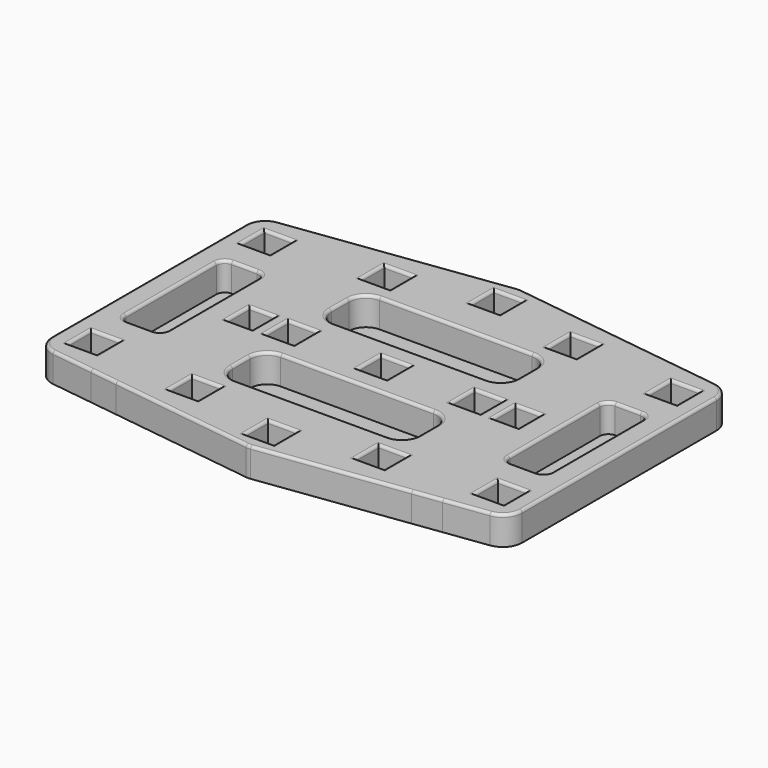
from build123d import *

# Parameters (mm, degrees)
F0_W     = 10.2
F0_H     = 10.2
F0_W_2   = 9
F0_H_2   = 10
F1_DEPTH = 10
F2_R     = 1
F3_DEPTH = 0.2


with BuildPart() as f1:
    # F0 (on Top) → F1 (new body)
    with BuildSketch(Plane.XY):
        with BuildLine():
            ThreePointArc((0.7942548198, 60.0159320314), (0, 60.0687344325), (-0.7942548198, 60.0159320314))
            Line((-0.7942548198, 60.0159320314), (-52.3086558222, 53.1361267777))
            Line((-52.3086558222, 53.1361267777), (-62.2206518204, 51.8123687447))
            Line((-62.2206518204, 51.8123687447), (-77.3591722741, 49.7906025875))
            ThreePointArc((-77.3591722741, 49.7906025875), (-81.6104467603, 47.510594627), (-83.3076238632, 42.9949151722))
            Line((-83.3076238632, 42.9949151722), (-83.3076238632, 0))
            Line((-83.3076238632, 0), (-83.3076238632, -42.9949151722))
            ThreePointArc((-83.3076238632, -42.9949151722), (-81.6104467603, -47.510594627), (-77.3591722741, -49.7906025875))
            Line((-77.3591722741, -49.7906025875), (-62.2206518204, -51.8123687447))
            Line((-62.2206518204, -51.8123687447), (-52.3086558222, -53.1361267777))
            Line((-52.3086558222, -53.1361267777), (-0.7942548198, -60.0159320314))
            ThreePointArc((-0.7942548198, -60.0159320314), (0, -60.0687344325), (0.7942548198, -60.0159320314))
            Line((0.7942548198, -60.0159320314), (52.3086558222, -53.1361267777))
            Line((52.3086558222, -53.1361267777), (62.2206518204, -51.8123687447))
            Line((62.2206518204, -51.8123687447), (77.3591722741, -49.7906025875))
            ThreePointArc((77.3591722741, -49.7906025875), (81.6104467603, -47.510594627), (83.3076238632, -42.9949151722))
            Line((83.3076238632, -42.9949151722), (83.3076238632, 0))
            Line((83.3076238632, 0), (83.3076238632, 42.9949151722))
            ThreePointArc((83.3076238632, 42.9949151722), (81.6104467603, 47.510594627), (77.3591722741, 49.7906025875))
            Line((77.3591722741, 49.7906025875), (62.2206518204, 51.8123687447))
            Line((62.2206518204, 51.8123687447), (52.3086558222, 53.1361267777))
            Line((52.3086558222, 53.1361267777), (0.7942548198, 60.0159320314))
        make_face()
        with Locations((-72, -38.3015)):
            Rectangle(F0_W, F0_H, mode=Mode.SUBTRACT)
        with Locations((-33, -42.3460813925)):
            Rectangle(F0_W, F0_H, mode=Mode.SUBTRACT)
        with Locations((-47.1, 0)):
            Rectangle(F0_W_2, F0_H_2, mode=Mode.SUBTRACT)
        with Locations((0, -50)):
            Rectangle(F0_W, F0_H, mode=Mode.SUBTRACT)
        with Locations((33, -42.3460813925)):
            Rectangle(F0_W, F0_H, mode=Mode.SUBTRACT)
        with Locations((72, -38.3015)):
            Rectangle(F0_W, F0_H, mode=Mode.SUBTRACT)
        with BuildLine():
            Line((27, -31.8107493222), (-27, -31.8107493222))
            ThreePointArc((-27, -31.8107493222), (-31.2426406871, -30.0533900093), (-33, -25.8107493222))
            Line((-33, -25.8107493222), (-33, -17.9431978092))
            ThreePointArc((-33, -17.9431978092), (-31.2426406871, -13.700557122), (-27, -11.9431978092))
            Line((-27, -11.9431978092), (27, -11.9431978092))
            ThreePointArc((27, -11.9431978092), (31.2426406871, -13.700557122), (33, -17.9431978092))
            Line((33, -17.9431978092), (33, -25.8107493222))
            ThreePointArc((33, -25.8107493222), (31.2426406871, -30.0533900093), (27, -31.8107493222))
        make_face(mode=Mode.SUBTRACT)
        Rectangle(F0_W, F0_H, mode=Mode.SUBTRACT)
        with Locations((47.1, 0)):
            Rectangle(F0_W_2, F0_H_2, mode=Mode.SUBTRACT)
        with BuildLine():
            ThreePointArc((-75.3606036305, 19.9991353583), (-74.4819239741, 22.1204557019), (-72.3606036305, 22.9991353583))
            Line((-72.3606036305, 22.9991353583), (-63.426261276, 22.9991353583))
            ThreePointArc((-63.426261276, 22.9991353583), (-61.3049409324, 22.1204557019), (-60.426261276, 19.9991353583))
            Line((-60.426261276, 19.9991353583), (-60.426261276, -19.8824652731))
            ThreePointArc((-60.426261276, -19.8824652731), (-61.3049409324, -22.0037856167), (-63.426261276, -22.8824652731))
            Line((-63.426261276, -22.8824652731), (-72.3606036305, -22.8824652731))
            ThreePointArc((-72.3606036305, -22.8824652731), (-74.4819239741, -22.0037856167), (-75.3606036305, -19.8824652731))
            Line((-75.3606036305, -19.8824652731), (-75.3606036305, 19.9991353583))
        make_face(mode=Mode.SUBTRACT)
        with Locations((-33, 0.1539186075)):
            Rectangle(F0_W, F0_H, mode=Mode.SUBTRACT)
        with Locations((-72, 38.3015)):
            Rectangle(F0_W, F0_H, mode=Mode.SUBTRACT)
        with Locations((-33, 42.6539186075)):
            Rectangle(F0_W, F0_H, mode=Mode.SUBTRACT)
        with Locations((33, 0.1539186075)):
            Rectangle(F0_W, F0_H, mode=Mode.SUBTRACT)
        with BuildLine():
            Line((-33, 17.9431978092), (-33, 25.8107493222))
            ThreePointArc((-33, 25.8107493222), (-31.2426406871, 30.0533900093), (-27, 31.8107493222))
            Line((-27, 31.8107493222), (27, 31.8107493222))
            ThreePointArc((27, 31.8107493222), (31.2426406871, 30.0533900093), (33, 25.8107493222))
            Line((33, 25.8107493222), (33, 17.9431978092))
            ThreePointArc((33, 17.9431978092), (31.2426406871, 13.700557122), (27, 11.9431978092))
            Line((27, 11.9431978092), (-27, 11.9431978092))
            ThreePointArc((-27, 11.9431978092), (-31.2426406871, 13.700557122), (-33, 17.9431978092))
        make_face(mode=Mode.SUBTRACT)
        with BuildLine():
            Line((60.426261276, -19.8824652731), (60.426261276, 19.9991353583))
            ThreePointArc((60.426261276, 19.9991353583), (61.3049409324, 22.1204557019), (63.426261276, 22.9991353583))
            Line((63.426261276, 22.9991353583), (72.3606036305, 22.9991353583))
            ThreePointArc((72.3606036305, 22.9991353583), (74.4819239741, 22.1204557019), (75.3606036305, 19.9991353583))
            Line((75.3606036305, 19.9991353583), (75.3606036305, -19.8824652731))
            ThreePointArc((75.3606036305, -19.8824652731), (74.4819239741, -22.0037856167), (72.3606036305, -22.8824652731))
            Line((72.3606036305, -22.8824652731), (63.426261276, -22.8824652731))
            ThreePointArc((63.426261276, -22.8824652731), (61.3049409324, -22.0037856167), (60.426261276, -19.8824652731))
        make_face(mode=Mode.SUBTRACT)
        with Locations((33, 42.6539186075)):
            Rectangle(F0_W, F0_H, mode=Mode.SUBTRACT)
        with Locations((0, 50)):
            Rectangle(F0_W, F0_H, mode=Mode.SUBTRACT)
        with Locations((72, 38.3015)):
            Rectangle(F0_W, F0_H, mode=Mode.SUBTRACT)
    extrude(amount=F1_DEPTH)

    # F2
    f2_edges = [f1.edges().sort_by_distance(p)[0] for p in [
        (0, 60.068734, 10),
        (-39.076714, 54.903267, 10),
        (-81.610447, 47.510595, 10),
        (-83.307624, 0, 10),
        (-81.610447, -47.510595, 10),
        (-39.076714, -54.903267, 10),
        (0, -60.068734, 10),
        (39.076714, -54.903267, 10),
        (81.610447, -47.510595, 10),
        (83.307624, 0, 10),
        (81.610447, 47.510595, 10),
        (39.076714, 54.903267, 10),
        (-72, -43.4015, 10),
        (-77.1, -38.3015, 10),
        (-72, -33.2015, 10),
        (-66.9, -38.3015, 10),
        (-33, -47.446081, 10),
        (-38.1, -42.346081, 10),
        (-33, -37.246081, 10),
        (-27.9, -42.346081, 10),
        (-47.1, -5, 10),
        (-51.6, 0, 10),
        (-47.1, 5, 10),
        (-42.6, 0, 10),
        (5.1, -50, 10),
        (0, -55.1, 10),
        (-5.1, -50, 10),
        (0, -44.9, 10),
        (27.9, -42.346081, 10),
        (33, -37.246081, 10),
        (38.1, -42.346081, 10),
        (33, -47.446081, 10),
        (72, -43.4015, 10),
        (66.9, -38.3015, 10),
        (72, -33.2015, 10),
        (77.1, -38.3015, 10),
        (0, -31.810749, 10),
        (-31.242641, -30.05339, 10),
        (-33, -21.876974, 10),
        (-31.242641, -13.700557, 10),
        (0, -11.943198, 10),
        (31.242641, -13.700557, 10),
        (33, -21.876974, 10),
        (31.242641, -30.05339, 10),
        (5.1, 0, 10),
        (0, -5.1, 10),
        (-5.1, 0, 10),
        (0, 5.1, 10),
        (51.6, 0, 10),
        (47.1, -5, 10),
        (42.6, 0, 10),
        (47.1, 5, 10),
        (-74.481924, -22.003786, 10),
        (-75.360604, 0.058335, 10),
        (-74.481924, 22.120456, 10),
        (-67.893432, 22.999135, 10),
        (-61.304941, 22.120456, 10),
        (-60.426261, 0.058335, 10),
        (-61.304941, -22.003786, 10),
        (-67.893432, -22.882465, 10),
        (-33, 5.253919, 10),
        (-27.9, 0.153919, 10),
        (-33, -4.946081, 10),
        (-38.1, 0.153919, 10),
        (-72, 33.2015, 10),
        (-77.1, 38.3015, 10),
        (-72, 43.4015, 10),
        (-66.9, 38.3015, 10),
        (-33, 37.553919, 10),
        (-38.1, 42.653919, 10),
        (-33, 47.753919, 10),
        (-27.9, 42.653919, 10),
        (33, -4.946081, 10),
        (27.9, 0.153919, 10),
        (33, 5.253919, 10),
        (38.1, 0.153919, 10),
        (0, 11.943198, 10),
        (-31.242641, 13.700557, 10),
        (-33, 21.876974, 10),
        (-31.242641, 30.05339, 10),
        (0, 31.810749, 10),
        (31.242641, 30.05339, 10),
        (33, 21.876974, 10),
        (31.242641, 13.700557, 10),
        (60.426261, 0.058335, 10),
        (61.304941, 22.120456, 10),
        (67.893432, 22.999135, 10),
        (74.481924, 22.120456, 10),
        (75.360604, 0.058335, 10),
        (74.481924, -22.003786, 10),
        (67.893432, -22.882465, 10),
        (61.304941, -22.003786, 10),
        (33, 47.753919, 10),
        (38.1, 42.653919, 10),
        (33, 37.553919, 10),
        (27.9, 42.653919, 10),
        (5.1, 50, 10),
        (0, 44.9, 10),
        (-5.1, 50, 10),
        (0, 55.1, 10),
        (72, 33.2015, 10),
        (66.9, 38.3015, 10),
        (72, 43.4015, 10),
        (77.1, 38.3015, 10),
    ]]
    fillet(f2_edges, radius=F2_R)

    # F0 (on Top) → F3 (join)
    with BuildSketch(Plane.XY):
        with BuildLine():
            ThreePointArc((0.7942548198, 60.0159320314), (0, 60.0687344325), (-0.7942548198, 60.0159320314))
            Line((-0.7942548198, 60.0159320314), (-52.3086558222, 53.1361267777))
            Line((-52.3086558222, 53.1361267777), (-62.2206518204, 51.8123687447))
            Line((-62.2206518204, 51.8123687447), (-77.3591722741, 49.7906025875))
            ThreePointArc((-77.3591722741, 49.7906025875), (-81.6104467603, 47.510594627), (-83.3076238632, 42.9949151722))
            Line((-83.3076238632, 42.9949151722), (-83.3076238632, 0))
            Line((-83.3076238632, 0), (-83.3076238632, -42.9949151722))
            ThreePointArc((-83.3076238632, -42.9949151722), (-81.6104467603, -47.510594627), (-77.3591722741, -49.7906025875))
            Line((-77.3591722741, -49.7906025875), (-62.2206518204, -51.8123687447))
            Line((-62.2206518204, -51.8123687447), (-52.3086558222, -53.1361267777))
            Line((-52.3086558222, -53.1361267777), (-0.7942548198, -60.0159320314))
            ThreePointArc((-0.7942548198, -60.0159320314), (0, -60.0687344325), (0.7942548198, -60.0159320314))
            Line((0.7942548198, -60.0159320314), (52.3086558222, -53.1361267777))
            Line((52.3086558222, -53.1361267777), (62.2206518204, -51.8123687447))
            Line((62.2206518204, -51.8123687447), (77.3591722741, -49.7906025875))
            ThreePointArc((77.3591722741, -49.7906025875), (81.6104467603, -47.510594627), (83.3076238632, -42.9949151722))
            Line((83.3076238632, -42.9949151722), (83.3076238632, 0))
            Line((83.3076238632, 0), (83.3076238632, 42.9949151722))
            ThreePointArc((83.3076238632, 42.9949151722), (81.6104467603, 47.510594627), (77.3591722741, 49.7906025875))
            Line((77.3591722741, 49.7906025875), (62.2206518204, 51.8123687447))
            Line((62.2206518204, 51.8123687447), (52.3086558222, 53.1361267777))
            Line((52.3086558222, 53.1361267777), (0.7942548198, 60.0159320314))
        make_face()
        with Locations((-72, -38.3015)):
            Rectangle(F0_W, F0_H, mode=Mode.SUBTRACT)
        with Locations((-33, -42.3460813925)):
            Rectangle(F0_W, F0_H, mode=Mode.SUBTRACT)
        with Locations((-47.1, 0)):
            Rectangle(F0_W_2, F0_H_2, mode=Mode.SUBTRACT)
        with Locations((0, -50)):
            Rectangle(F0_W, F0_H, mode=Mode.SUBTRACT)
        with Locations((33, -42.3460813925)):
            Rectangle(F0_W, F0_H, mode=Mode.SUBTRACT)
        with Locations((72, -38.3015)):
            Rectangle(F0_W, F0_H, mode=Mode.SUBTRACT)
        with BuildLine():
            Line((27, -31.8107493222), (-27, -31.8107493222))
            ThreePointArc((-27, -31.8107493222), (-31.2426406871, -30.0533900093), (-33, -25.8107493222))
            Line((-33, -25.8107493222), (-33, -17.9431978092))
            ThreePointArc((-33, -17.9431978092), (-31.2426406871, -13.700557122), (-27, -11.9431978092))
            Line((-27, -11.9431978092), (27, -11.9431978092))
            ThreePointArc((27, -11.9431978092), (31.2426406871, -13.700557122), (33, -17.9431978092))
            Line((33, -17.9431978092), (33, -25.8107493222))
            ThreePointArc((33, -25.8107493222), (31.2426406871, -30.0533900093), (27, -31.8107493222))
        make_face(mode=Mode.SUBTRACT)
        Rectangle(F0_W, F0_H, mode=Mode.SUBTRACT)
        with Locations((47.1, 0)):
            Rectangle(F0_W_2, F0_H_2, mode=Mode.SUBTRACT)
        with BuildLine():
            ThreePointArc((-75.3606036305, 19.9991353583), (-74.4819239741, 22.1204557019), (-72.3606036305, 22.9991353583))
            Line((-72.3606036305, 22.9991353583), (-63.426261276, 22.9991353583))
            ThreePointArc((-63.426261276, 22.9991353583), (-61.3049409324, 22.1204557019), (-60.426261276, 19.9991353583))
            Line((-60.426261276, 19.9991353583), (-60.426261276, -19.8824652731))
            ThreePointArc((-60.426261276, -19.8824652731), (-61.3049409324, -22.0037856167), (-63.426261276, -22.8824652731))
            Line((-63.426261276, -22.8824652731), (-72.3606036305, -22.8824652731))
            ThreePointArc((-72.3606036305, -22.8824652731), (-74.4819239741, -22.0037856167), (-75.3606036305, -19.8824652731))
            Line((-75.3606036305, -19.8824652731), (-75.3606036305, 19.9991353583))
        make_face(mode=Mode.SUBTRACT)
        with Locations((-33, 0.1539186075)):
            Rectangle(F0_W, F0_H, mode=Mode.SUBTRACT)
        with Locations((-72, 38.3015)):
            Rectangle(F0_W, F0_H, mode=Mode.SUBTRACT)
        with Locations((-33, 42.6539186075)):
            Rectangle(F0_W, F0_H, mode=Mode.SUBTRACT)
        with Locations((33, 0.1539186075)):
            Rectangle(F0_W, F0_H, mode=Mode.SUBTRACT)
        with BuildLine():
            Line((-33, 17.9431978092), (-33, 25.8107493222))
            ThreePointArc((-33, 25.8107493222), (-31.2426406871, 30.0533900093), (-27, 31.8107493222))
            Line((-27, 31.8107493222), (27, 31.8107493222))
            ThreePointArc((27, 31.8107493222), (31.2426406871, 30.0533900093), (33, 25.8107493222))
            Line((33, 25.8107493222), (33, 17.9431978092))
            ThreePointArc((33, 17.9431978092), (31.2426406871, 13.700557122), (27, 11.9431978092))
            Line((27, 11.9431978092), (-27, 11.9431978092))
            ThreePointArc((-27, 11.9431978092), (-31.2426406871, 13.700557122), (-33, 17.9431978092))
        make_face(mode=Mode.SUBTRACT)
        with BuildLine():
            Line((60.426261276, -19.8824652731), (60.426261276, 19.9991353583))
            ThreePointArc((60.426261276, 19.9991353583), (61.3049409324, 22.1204557019), (63.426261276, 22.9991353583))
            Line((63.426261276, 22.9991353583), (72.3606036305, 22.9991353583))
            ThreePointArc((72.3606036305, 22.9991353583), (74.4819239741, 22.1204557019), (75.3606036305, 19.9991353583))
            Line((75.3606036305, 19.9991353583), (75.3606036305, -19.8824652731))
            ThreePointArc((75.3606036305, -19.8824652731), (74.4819239741, -22.0037856167), (72.3606036305, -22.8824652731))
            Line((72.3606036305, -22.8824652731), (63.426261276, -22.8824652731))
            ThreePointArc((63.426261276, -22.8824652731), (61.3049409324, -22.0037856167), (60.426261276, -19.8824652731))
        make_face(mode=Mode.SUBTRACT)
        with Locations((33, 42.6539186075)):
            Rectangle(F0_W, F0_H, mode=Mode.SUBTRACT)
        with Locations((0, 50)):
            Rectangle(F0_W, F0_H, mode=Mode.SUBTRACT)
        with Locations((72, 38.3015)):
            Rectangle(F0_W, F0_H, mode=Mode.SUBTRACT)
        with BuildLine():
            ThreePointArc((-27, 31.8107493222), (-31.2426406871, 30.0533900093), (-33, 25.8107493222))
            Line((-33, 25.8107493222), (-33, 17.9431978092))
            ThreePointArc((-33, 17.9431978092), (-31.2426406871, 13.700557122), (-27, 11.9431978092))
            Line((-27, 11.9431978092), (27, 11.9431978092))
            ThreePointArc((27, 11.9431978092), (31.2426406871, 13.700557122), (33, 17.9431978092))
            Line((33, 17.9431978092), (33, 25.8107493222))
            ThreePointArc((33, 25.8107493222), (31.2426406871, 30.0533900093), (27, 31.8107493222))
            Line((27, 31.8107493222), (-27, 31.8107493222))
        make_face()
        with BuildLine():
            ThreePointArc((-33, -25.8107493222), (-31.2426406871, -30.0533900093), (-27, -31.8107493222))
            Line((-27, -31.8107493222), (27, -31.8107493222))
            ThreePointArc((27, -31.8107493222), (31.2426406871, -30.0533900093), (33, -25.8107493222))
            Line((33, -25.8107493222), (33, -17.9431978092))
            ThreePointArc((33, -17.9431978092), (31.2426406871, -13.700557122), (27, -11.9431978092))
            Line((27, -11.9431978092), (-27, -11.9431978092))
            ThreePointArc((-27, -11.9431978092), (-31.2426406871, -13.700557122), (-33, -17.9431978092))
            Line((-33, -17.9431978092), (-33, -25.8107493222))
        make_face()
        with BuildLine():
            Line((-63.426261276, 22.9991353583), (-72.3606036305, 22.9991353583))
            ThreePointArc((-72.3606036305, 22.9991353583), (-74.4819239741, 22.1204557019), (-75.3606036305, 19.9991353583))
            Line((-75.3606036305, 19.9991353583), (-75.3606036305, -19.8824652731))
            ThreePointArc((-75.3606036305, -19.8824652731), (-74.4819239741, -22.0037856167), (-72.3606036305, -22.8824652731))
            Line((-72.3606036305, -22.8824652731), (-63.426261276, -22.8824652731))
            ThreePointArc((-63.426261276, -22.8824652731), (-61.3049409324, -22.0037856167), (-60.426261276, -19.8824652731))
            Line((-60.426261276, -19.8824652731), (-60.426261276, 19.9991353583))
            ThreePointArc((-60.426261276, 19.9991353583), (-61.3049409324, 22.1204557019), (-63.426261276, 22.9991353583))
        make_face()
        with BuildLine():
            ThreePointArc((63.426261276, 22.9991353583), (61.3049409324, 22.1204557019), (60.426261276, 19.9991353583))
            Line((60.426261276, 19.9991353583), (60.426261276, -19.8824652731))
            ThreePointArc((60.426261276, -19.8824652731), (61.3049409324, -22.0037856167), (63.426261276, -22.8824652731))
            Line((63.426261276, -22.8824652731), (72.3606036305, -22.8824652731))
            ThreePointArc((72.3606036305, -22.8824652731), (74.4819239741, -22.0037856167), (75.3606036305, -19.8824652731))
            Line((75.3606036305, -19.8824652731), (75.3606036305, 19.9991353583))
            ThreePointArc((75.3606036305, 19.9991353583), (74.4819239741, 22.1204557019), (72.3606036305, 22.9991353583))
            Line((72.3606036305, 22.9991353583), (63.426261276, 22.9991353583))
        make_face()
        with Locations((-33, 42.6539186075)):
            Rectangle(F0_W, F0_H)
        with Locations((-72, 38.3015)):
            Rectangle(F0_W, F0_H)
        with Locations((0, 50)):
            Rectangle(F0_W, F0_H)
        with Locations((33, 42.6539186075)):
            Rectangle(F0_W, F0_H)
        with Locations((72, 38.3015)):
            Rectangle(F0_W, F0_H)
        with Locations((33, 0.1539186075)):
            Rectangle(F0_W, F0_H)
        Rectangle(F0_W, F0_H)
        with Locations((-33, 0.1539186075)):
            Rectangle(F0_W, F0_H)
        with Locations((-72, -38.3015)):
            Rectangle(F0_W, F0_H)
        with Locations((-33, -42.3460813925)):
            Rectangle(F0_W, F0_H)
        with Locations((0, -50)):
            Rectangle(F0_W, F0_H)
        with Locations((33, -42.3460813925)):
            Rectangle(F0_W, F0_H)
        with Locations((72, -38.3015)):
            Rectangle(F0_W, F0_H)
        with Locations((47.1, 0)):
            Rectangle(F0_W_2, F0_H_2)
        with Locations((-47.1, 0)):
            Rectangle(F0_W_2, F0_H_2)
    extrude(amount=-F3_DEPTH)


solid = f1.part
